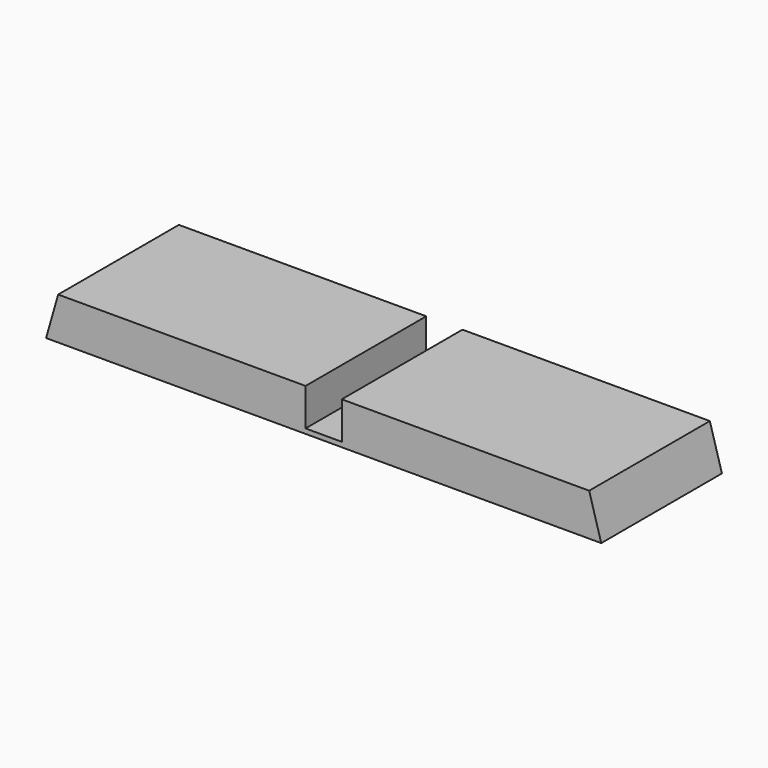
from build123d import *

# Parameters (mm, degrees)
PAD_DEPTH = 25


with BuildPart() as part:
    # Sketch → Pad (new body)
    with BuildSketch(Plane.XZ):
        Polygon((-46, 0), (46, 0), (44, 7), (3, 7), (3, 0.8), (-3, 0.8), (-3, 7), (-44, 7), align=None)
    extrude(amount=PAD_DEPTH)


solid = part.part
